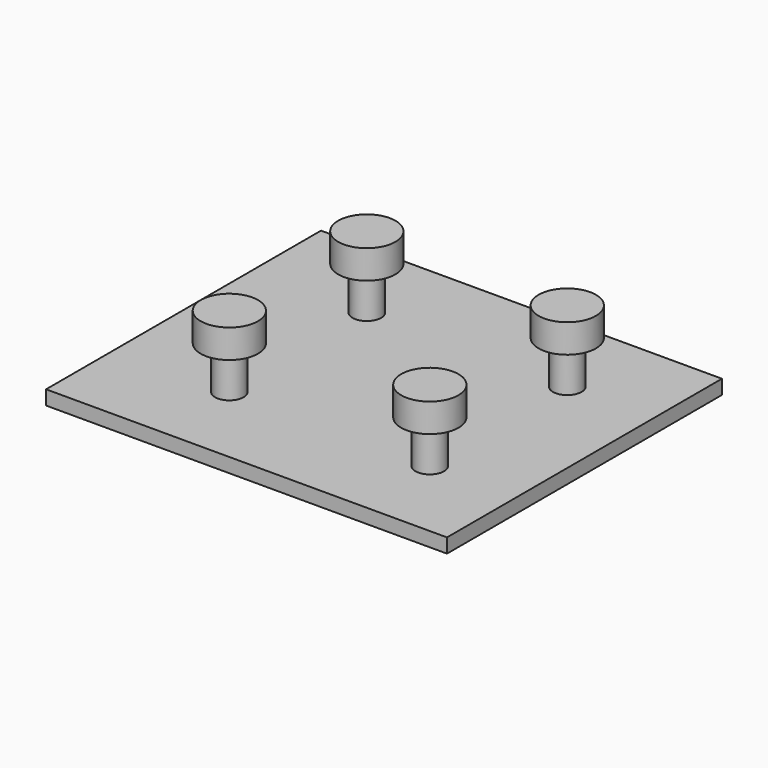
from build123d import *

# Parameters (mm, degrees)
F1_START = 25.4
F0_R     = 12.7
F0_R_2   = 6.35
F1_DEPTH = 12.7
F2_DEPTH = 25.4
F0_W     = 177.8
F0_H     = 152.4
F3_DEPTH = 6.35


with BuildPart() as f1:
    # F0 (on Top) → F1 (new body)
    with BuildSketch(Plane.XY.offset(F1_START)):
        with Locations((-25.4, 38.1)):
            Circle(F0_R)
        with Locations((-25.4, 38.1)):
            Circle(F0_R_2, mode=Mode.SUBTRACT)
        with Locations((-25.4, 38.1)):
            Circle(F0_R_2)
    extrude(amount=F1_DEPTH)

    # F0 (on Top) → F2, piece 2 (join)
    with BuildSketch(Plane.XY):
        with Locations((-25.4, 38.1)):
            Circle(F0_R_2)
    extrude(amount=F2_DEPTH)



with BuildPart() as f1b:
    # F0 (on Top) → F1, piece 2 (new body)
    with BuildSketch(Plane.XY.offset(F1_START)):
        with Locations((63.5, 38.1)):
            Circle(F0_R)
        with Locations((63.5, 38.1)):
            Circle(F0_R_2, mode=Mode.SUBTRACT)
        with Locations((63.5, 38.1)):
            Circle(F0_R_2)
    extrude(amount=F1_DEPTH)

    # F0 (on Top) → F2 (join)
    with BuildSketch(Plane.XY):
        with Locations((63.5, 38.1)):
            Circle(F0_R_2)
    extrude(amount=F2_DEPTH)


with BuildPart() as f1c:
    # F0 (on Top) → F1, piece 3 (new body)
    with BuildSketch(Plane.XY.offset(F1_START)):
        with Locations((-25.4, -38.1)):
            Circle(F0_R)
        with Locations((-25.4, -38.1)):
            Circle(F0_R_2, mode=Mode.SUBTRACT)
        with Locations((-25.4, -38.1)):
            Circle(F0_R_2)
    extrude(amount=F1_DEPTH)

    # F0 (on Top) → F2, piece 3 (join)
    with BuildSketch(Plane.XY):
        with Locations((-25.4, -38.1)):
            Circle(F0_R_2)
    extrude(amount=F2_DEPTH)


with BuildPart() as f1d:
    # F0 (on Top) → F1, piece 4 (new body)
    with BuildSketch(Plane.XY.offset(F1_START)):
        with Locations((63.5, -38.1)):
            Circle(F0_R)
        with Locations((63.5, -38.1)):
            Circle(F0_R_2, mode=Mode.SUBTRACT)
        with Locations((63.5, -38.1)):
            Circle(F0_R_2)
    extrude(amount=F1_DEPTH)

    # F0 (on Top) → F2, piece 4 (join)
    with BuildSketch(Plane.XY):
        with Locations((63.5, -38.1)):
            Circle(F0_R_2)
    extrude(amount=F2_DEPTH)


with BuildPart() as f1_1:
    add(f1.part)

    add(f1b.part)  # F3 merges F1b

    add(f1c.part)  # F3 merges F1c

    add(f1d.part)  # F3 merges F1d
    # F0 (on Top) → F3 (join)
    with BuildSketch(Plane.XY):
        with Locations((12.7, 0)):
            Rectangle(F0_W, F0_H)
        with Locations((-25.4, -38.1)):
            Circle(F0_R, mode=Mode.SUBTRACT)
        with Locations((63.5, -38.1)):
            Circle(F0_R, mode=Mode.SUBTRACT)
        with Locations((-25.4, 38.1)):
            Circle(F0_R, mode=Mode.SUBTRACT)
        with Locations((63.5, 38.1)):
            Circle(F0_R, mode=Mode.SUBTRACT)
        with Locations((63.5, 38.1)):
            Circle(F0_R)
        with Locations((63.5, 38.1)):
            Circle(F0_R_2, mode=Mode.SUBTRACT)
        with Locations((-25.4, 38.1)):
            Circle(F0_R)
        with Locations((-25.4, 38.1)):
            Circle(F0_R_2, mode=Mode.SUBTRACT)
        with Locations((-25.4, -38.1)):
            Circle(F0_R)
        with Locations((-25.4, -38.1)):
            Circle(F0_R_2, mode=Mode.SUBTRACT)
        with Locations((63.5, -38.1)):
            Circle(F0_R)
        with Locations((63.5, -38.1)):
            Circle(F0_R_2, mode=Mode.SUBTRACT)
    extrude(amount=F3_DEPTH)


solid = f1_1.part
